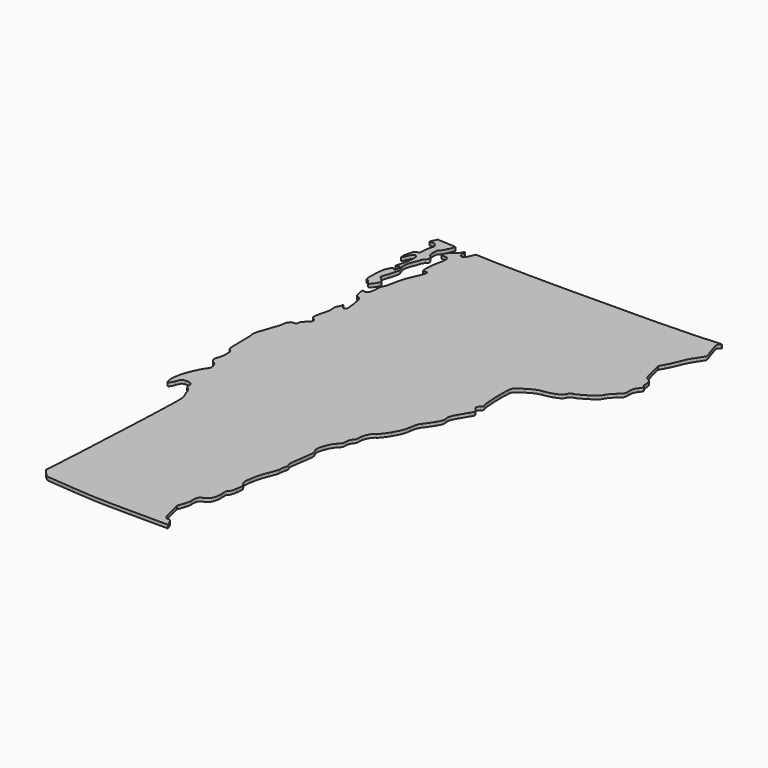
from build123d import *

# Parameters (mm, degrees)
F1_DEPTH = 25.4


with BuildPart() as f1:
    # F0 (on Top) → F1 (new body)
    with BuildSketch(Plane.XY):
        with BuildLine():
            add(Edge.make_bspline(
                [(-2097.4212210871, -1856.516704683), (-2121.4885338871, -1856.516704683), (-2125.2369134871, -1848.978365683), (-2148.4211190871, -1753.944875283)],
                knots=[0, 0, 0, 0, 1, 1, 1, 1], degree=3))
            Line((-2148.4211190871, -1753.944875283), (-2163.8260920871, -1690.799484683))
            Line((-2163.8260920871, -1690.799484683), (-2148.0146682871, -1646.418217083))
            add(Edge.make_bspline(
                [(-2148.0146682871, -1646.418217083), (-2139.3186226871, -1622.008944083), (-2134.0039266871, -1595.324415283), (-2136.2039222871, -1587.120113683)],
                knots=[0, 0, 0, 0, 1, 1, 1, 1], degree=3))
            add(Edge.make_bspline(
                [(-2136.2039222871, -1587.120113683), (-2138.4046290871, -1578.915837483), (-2137.3888830871, -1561.336649883), (-2133.9473100871, -1548.055675683)],
                knots=[0, 0, 0, 0, 1, 1, 1, 1], degree=3))
            add(Edge.make_bspline(
                [(-2133.9473100871, -1548.055675683), (-2129.0820670871, -1529.277227083), (-2122.7200782871, -1522.619887083), (-2105.3373342871, -1518.115959083)],
                knots=[0, 0, 0, 0, 1, 1, 1, 1], degree=3))
            add(Edge.make_bspline(
                [(-2105.3373342871, -1518.115959083), (-2069.8033438871, -1508.908078083), (-2047.5818744871, -1462.632199083), (-2051.6549930871, -1406.322634283)],
                knots=[0, 0, 0, 0, 1, 1, 1, 1], degree=3))
            add(Edge.make_bspline(
                [(-2051.6549930871, -1406.322634283), (-2054.2062452871, -1371.051737083), (-2052.6162814871, -1361.241012483), (-2043.8012368871, -1357.858215083)],
                knots=[0, 0, 0, 0, 1, 1, 1, 1], degree=3))
            add(Edge.make_bspline(
                [(-2043.8012368871, -1357.858215083), (-2036.6163134871, -1355.101222883), (-2029.8299414871, -1336.314163683), (-2024.4084638871, -1304.173740283)],
                knots=[0, 0, 0, 0, 1, 1, 1, 1], degree=3))
            add(Edge.make_bspline(
                [(-2024.4084638871, -1304.173740283), (-2016.5676108871, -1257.684933083), (-2017.0041606871, -1253.416132883), (-2031.7217080871, -1232.748076683)],
                knots=[0, 0, 0, 0, 1, 1, 1, 1], degree=3))
            add(Edge.make_bspline(
                [(-2031.7217080871, -1232.748076683), (-2046.7317110871, -1211.667829283), (-2047.0191628871, -1208.204031283), (-2038.7353084871, -1148.337475883)],
                knots=[0, 0, 0, 0, 1, 1, 1, 1], degree=3))
            add(Edge.make_bspline(
                [(-2038.7353084871, -1148.337475883), (-2033.0485786871, -1107.240072683), (-2021.4263768871, -1066.313992483), (-2004.7210254871, -1028.561388283)],
                knots=[0, 0, 0, 0, 1, 1, 1, 1], degree=3))
            add(Edge.make_bspline(
                [(-2004.7210254871, -1028.561388283), (-1990.7640810871, -997.020227083), (-1979.8422334871, -963.262585683), (-1980.4501062871, -953.543605883)],
                knots=[0, 0, 0, 0, 1, 1, 1, 1], degree=3))
            add(Edge.make_bspline(
                [(-1980.4501062871, -953.543605883), (-1981.0594268871, -943.824626083), (-1978.1354296871, -925.509981483), (-1973.9547928871, -912.844042883)],
                knots=[0, 0, 0, 0, 1, 1, 1, 1], degree=3))
            add(Edge.make_bspline(
                [(-1973.9547928871, -912.844042883), (-1968.3110652871, -895.743010283), (-1968.6243234871, -886.180291283), (-1975.1712750871, -875.697177883)],
                knots=[0, 0, 0, 0, 1, 1, 1, 1], degree=3))
            add(Edge.make_bspline(
                [(-1975.1712750871, -875.697177883), (-1982.3045856871, -864.274975683), (-1981.0228762871, -842.867855683), (-1968.4601886871, -763.571240083)],
                knots=[0, 0, 0, 0, 1, 1, 1, 1], degree=3))
            add(Edge.make_bspline(
                [(-1968.4601886871, -763.571240083), (-1954.4587688871, -675.197934483), (-1953.9827982871, -663.531993883), (-1963.6128780871, -644.909094883)],
                knots=[0, 0, 0, 0, 1, 1, 1, 1], degree=3))
            add(Edge.make_bspline(
                [(-1963.6128780871, -644.909094883), (-1977.6322048871, -617.798760483), (-1977.1210806871, -606.030330883), (-1959.6831424871, -554.393858083)],
                knots=[0, 0, 0, 0, 1, 1, 1, 1], degree=3))
            add(Edge.make_bspline(
                [(-1959.6831424871, -554.393858083), (-1950.5232928871, -527.269909283), (-1935.8172262871, -502.161704483), (-1920.2566782871, -487.080022683)],
                knots=[0, 0, 0, 0, 1, 1, 1, 1], degree=3))
            add(Edge.make_bspline(
                [(-1920.2566782871, -487.080022683), (-1899.7993912871, -467.251385683), (-1895.4395320871, -457.801950683), (-1895.4395320871, -433.285159483)],
                knots=[0, 0, 0, 0, 1, 1, 1, 1], degree=3))
            add(Edge.make_bspline(
                [(-1895.4395320871, -433.285159483), (-1895.4395320871, -412.648624683), (-1891.0510216871, -399.572679283), (-1881.1026544871, -390.569827083)],
                knots=[0, 0, 0, 0, 1, 1, 1, 1], degree=3))
            add(Edge.make_bspline(
                [(-1881.1026544871, -390.569827083), (-1870.9184482871, -381.352649683), (-1866.7657514871, -368.491004083), (-1866.7657514871, -346.162753083)],
                knots=[0, 0, 0, 0, 1, 1, 1, 1], degree=3))
            add(Edge.make_bspline(
                [(-1866.7657514871, -346.162753083), (-1866.7657514871, -307.002252283), (-1843.8159878871, -260.571509483), (-1816.7931056871, -245.062599683)],
                knots=[0, 0, 0, 0, 1, 1, 1, 1], degree=3))
            add(Edge.make_bspline(
                [(-1816.7931056871, -245.062599683), (-1804.9013590871, -238.237518083), (-1781.2455008871, -207.775196483), (-1760.0964448871, -172.051264883)],
                knots=[0, 0, 0, 0, 1, 1, 1, 1], degree=3))
            add(Edge.make_bspline(
                [(-1760.0964448871, -172.051264883), (-1730.0993750871, -121.380398483), (-1722.3531370871, -100.983309483), (-1715.4284366871, -54.425693683)],
                knots=[0, 0, 0, 0, 1, 1, 1, 1], degree=3))
            add(Edge.make_bspline(
                [(-1715.4284366871, -54.425693683), (-1709.0212612871, -11.344779083), (-1702.5366920871, 7.167020317), (-1687.8528504871, 24.302469917)],
                knots=[0, 0, 0, 0, 1, 1, 1, 1], degree=3))
            add(Edge.make_bspline(
                [(-1687.8528504871, 24.302469917), (-1677.2944514871, 36.624314717), (-1656.9081066871, 65.751129717), (-1642.5511630871, 89.029924917)],
                knots=[0, 0, 0, 0, 1, 1, 1, 1], degree=3))
            add(Edge.make_bspline(
                [(-1642.5511630871, 89.029924917), (-1619.8536976871, 125.832721517), (-1616.9956388871, 135.351701717), (-1620.6472444871, 161.993228317)],
                knots=[0, 0, 0, 0, 1, 1, 1, 1], degree=3))
            add(Edge.make_bspline(
                [(-1620.6472444871, 161.993228317), (-1624.2608770871, 188.357336117), (-1621.0701798871, 199.454088117), (-1597.7634192871, 241.532134517)],
                knots=[0, 0, 0, 0, 1, 1, 1, 1], degree=3))
            add(Edge.make_bspline(
                [(-1597.7634192871, 241.532134517), (-1582.8674114871, 268.427432517), (-1564.7183240871, 298.995113317), (-1557.4330452871, 309.460319717)],
                knots=[0, 0, 0, 0, 1, 1, 1, 1], degree=3))
            add(Edge.make_bspline(
                [(-1557.4330452871, 309.460319717), (-1540.4682074871, 333.828012917), (-1540.7205310871, 346.005763517), (-1558.5226544871, 362.116831117)],
                knots=[0, 0, 0, 0, 1, 1, 1, 1], degree=3))
            add(Edge.make_bspline(
                [(-1558.5226544871, 362.116831117), (-1576.8358766871, 378.689569117), (-1576.6924936871, 392.557638917), (-1558.0495286871, 407.650801517)],
                knots=[0, 0, 0, 0, 1, 1, 1, 1], degree=3))
            add(Edge.make_bspline(
                [(-1558.0495286871, 407.650801517), (-1544.9972306871, 418.220681317), (-1544.2552966871, 422.179093517), (-1551.7871840871, 441.057897517)],
                knots=[0, 0, 0, 0, 1, 1, 1, 1], degree=3))
            add(Edge.make_bspline(
                [(-1551.7871840871, 441.057897517), (-1560.8860736871, 463.862881117), (-1567.1548952871, 628.714164317), (-1560.8287458871, 678.807968117)],
                knots=[0, 0, 0, 0, 1, 1, 1, 1], degree=3))
            add(Edge.make_bspline(
                [(-1560.8287458871, 678.807968117), (-1557.2387860871, 707.233717717), (-1554.0660212871, 710.661676317), (-1498.6431958871, 745.992060317)],
                knots=[0, 0, 0, 0, 1, 1, 1, 1], degree=3))
            add(Edge.make_bspline(
                [(-1498.6431958871, 745.992060317), (-1452.2659454871, 775.556872917), (-1431.3846308871, 784.363306917), (-1397.2299874871, 788.761875717)],
                knots=[0, 0, 0, 0, 1, 1, 1, 1], degree=3))
            add(Edge.make_bspline(
                [(-1397.2299874871, 788.761875717), (-1373.5741292871, 791.807742117), (-1336.2636628871, 801.100916317), (-1314.3178342871, 809.413447317)],
                knots=[0, 0, 0, 0, 1, 1, 1, 1], degree=3))
            add(Edge.make_bspline(
                [(-1314.3178342871, 809.413447317), (-1282.5295818871, 821.452844117), (-1271.9857878871, 829.622728717), (-1262.4625912871, 849.593275517)],
                knots=[0, 0, 0, 0, 1, 1, 1, 1], degree=3))
            add(Edge.make_bspline(
                [(-1262.4625912871, 849.593275517), (-1254.0402560871, 867.254911517), (-1245.7097164871, 874.696451117), (-1234.2638668871, 874.781058517)],
                knots=[0, 0, 0, 0, 1, 1, 1, 1], degree=3))
            add(Edge.make_bspline(
                [(-1234.2638668871, 874.781058517), (-1225.3291120871, 874.852737317), (-1190.5995904871, 892.042669917), (-1157.0871098871, 912.992437517)],
                knots=[0, 0, 0, 0, 1, 1, 1, 1], degree=3))
            add(Edge.make_bspline(
                [(-1157.0871098871, 912.992437517), (-1109.2431110871, 942.902055117), (-1093.0758332871, 957.395930117), (-1081.8184262871, 980.471880917)],
                knots=[0, 0, 0, 0, 1, 1, 1, 1], degree=3))
            add(Edge.make_bspline(
                [(-1081.8184262871, 980.471880917), (-1073.9331486871, 996.635297917), (-1052.1713938871, 1022.182186117), (-1033.4590360871, 1037.242379517)],
                knots=[0, 0, 0, 0, 1, 1, 1, 1], degree=3))
            add(Edge.make_bspline(
                [(-1033.4590360871, 1037.242379517), (-1000.4022568871, 1063.847330117), (-999.4301480871, 1065.743389317), (-999.2094982871, 1104.050831117)],
                knots=[0, 0, 0, 0, 1, 1, 1, 1], degree=3))
            add(Edge.make_bspline(
                [(-999.2094982871, 1104.050831117), (-999.0224018871, 1136.526763117), (-995.2051374871, 1148.470097117), (-977.5554902871, 1171.798371517)],
                knots=[0, 0, 0, 0, 1, 1, 1, 1], degree=3))
            add(Edge.make_bspline(
                [(-977.5554902871, 1171.798371517), (-959.4888512871, 1195.677902117), (-957.8338126871, 1201.073598717), (-967.0022474871, 1206.204754317)],
                knots=[0, 0, 0, 0, 1, 1, 1, 1], degree=3))
            add(Edge.make_bspline(
                [(-967.0022474871, 1206.204754317), (-974.0894062871, 1210.171065917), (-977.8759112871, 1223.011883517), (-977.8759112871, 1243.080677517)],
                knots=[0, 0, 0, 0, 1, 1, 1, 1], degree=3))
            add(Edge.make_bspline(
                [(-977.8759112871, 1243.080677517), (-977.8759112871, 1273.863394717), (-988.5966162871, 1290.358713517), (-1014.5415732871, 1299.497049317)],
                knots=[0, 0, 0, 0, 1, 1, 1, 1], degree=3))
            add(Edge.make_bspline(
                [(-1014.5415732871, 1299.497049317), (-1022.4044226871, 1302.266208117), (-1032.4117178871, 1328.944310717), (-1045.7390216871, 1382.664624917)],
                knots=[0, 0, 0, 0, 1, 1, 1, 1], degree=3))
            Line((-1045.7390216871, 1382.664624917), (-1065.3603438871, 1461.754789317))
            Line((-1065.3603438871, 1461.754789317), (-1044.0585830871, 1499.748261717))
            add(Edge.make_bspline(
                [(-1044.0585830871, 1499.748261717), (-1032.3427060871, 1520.644994117), (-1013.8120598871, 1561.935234117), (-1002.8794680871, 1591.505075917)],
                knots=[0, 0, 0, 0, 1, 1, 1, 1], degree=3))
            add(Edge.make_bspline(
                [(-1002.8794680871, 1591.505075917), (-991.9468508871, 1621.074892317), (-968.9454744871, 1664.422481517), (-951.7652192871, 1687.832467717)],
                knots=[0, 0, 0, 0, 1, 1, 1, 1], degree=3))
            add(Edge.make_bspline(
                [(-951.7652192871, 1687.832467717), (-934.5849640871, 1711.243165117), (-920.5283754871, 1734.372887717), (-920.5283754871, 1739.233076117)],
                knots=[0, 0, 0, 0, 1, 1, 1, 1], degree=3))
            add(Edge.make_bspline(
                [(-920.5283754871, 1739.233076117), (-920.5283754871, 1744.092578717), (-930.2057754871, 1775.486775517), (-942.0336918871, 1808.997808317)],
                knots=[0, 0, 0, 0, 1, 1, 1, 1], degree=3))
            add(Edge.make_bspline(
                [(-942.0336918871, 1808.997808317), (-966.8311530871, 1879.254309917), (-968.3918560871, 1896.209114717), (-950.9942530871, 1906.342419317)],
                knots=[0, 0, 0, 0, 1, 1, 1, 1], degree=3))
            add(Edge.make_bspline(
                [(-950.9942530871, 1906.342419317), (-940.0539142871, 1912.714466517), (-940.7415176871, 1913.676466117), (-956.3705948871, 1913.864273717)],
                knots=[0, 0, 0, 0, 1, 1, 1, 1], degree=3))
            add(Edge.make_bspline(
                [(-956.3705948871, 1913.864273717), (-966.2271918871, 1913.986142917), (-1056.3989190871, 1909.126640317), (-1156.7521346871, 1903.073617117)],
                knots=[0, 0, 0, 0, 1, 1, 1, 1], degree=3))
            add(Edge.make_bspline(
                [(-1156.7521346871, 1903.073617117), (-1368.6877534871, 1890.290127317), (-2314.5842106871, 1885.089426517), (-2608.7628450871, 1895.090117717)],
                knots=[0, 0, 0, 0, 1, 1, 1, 1], degree=3))
            Line((-2608.7628450871, 1895.090117717), (-2788.0399058871, 1901.184720717))
            Line((-2788.0399058871, 1901.184720717), (-2803.7180050871, 1864.075117517))
            add(Edge.make_bspline(
                [(-2803.7180050871, 1864.075117517), (-2816.8986238871, 1832.878786717), (-2822.0276458871, 1827.338995917), (-2835.9107778871, 1829.306733917)],
                knots=[0, 0, 0, 0, 1, 1, 1, 1], degree=3))
            add(Edge.make_bspline(
                [(-2835.9107778871, 1829.306733917), (-2849.0806270871, 1831.174116517), (-2853.1501642871, 1837.207810317), (-2856.0082230871, 1859.104540717)],
                knots=[0, 0, 0, 0, 1, 1, 1, 1], degree=3))
            add(Edge.make_bspline(
                [(-2856.0082230871, 1859.104540717), (-2857.2031914871, 1868.256490917), (-2853.0548126871, 1883.642109117), (-2859.5924424871, 1886.561102517)],
                knots=[0, 0, 0, 0, 1, 1, 1, 1], degree=3))
            add(Edge.make_bspline(
                [(-2859.5924424871, 1886.561102517), (-2865.0225306871, 1886.675808917), (-2868.0325830871, 1872.275101117), (-2872.2318380871, 1865.007018117)],
                knots=[0, 0, 0, 0, 1, 1, 1, 1], degree=3))
            add(Edge.make_bspline(
                [(-2872.2318380871, 1865.007018117), (-2879.1830814871, 1853.152558717), (-2895.8332386871, 1836.678042517), (-2909.2317640871, 1828.397058317)],
                knots=[0, 0, 0, 0, 1, 1, 1, 1], degree=3))
            add(Edge.make_bspline(
                [(-2909.2317640871, 1828.397058317), (-2922.6310260871, 1820.116785317), (-2936.8754476871, 1803.924717117), (-2940.8876316871, 1792.415773917)],
                knots=[0, 0, 0, 0, 1, 1, 1, 1], degree=3))
            add(Edge.make_bspline(
                [(-2940.8876316871, 1792.415773917), (-2948.1313306871, 1771.636592717), (-2947.9743586871, 1771.476039317), (-2918.2245832871, 1769.311171917)],
                knots=[0, 0, 0, 0, 1, 1, 1, 1], degree=3))
            add(Edge.make_bspline(
                [(-2918.2245832871, 1769.311171917), (-2890.4282202871, 1767.288950917), (-2888.1085144871, 1765.506861517), (-2886.0777082871, 1744.607258917)],
                knots=[0, 0, 0, 0, 1, 1, 1, 1], degree=3))
            add(Edge.make_bspline(
                [(-2886.0777082871, 1744.607258917), (-2884.8741038871, 1732.218764517), (-2888.9063538871, 1702.721338117), (-2895.0382440871, 1679.056869317)],
                knots=[0, 0, 0, 0, 1, 1, 1, 1], degree=3))
            add(Edge.make_bspline(
                [(-2895.0382440871, 1679.056869317), (-2901.1701342871, 1655.392400517), (-2906.1873454871, 1615.169544717), (-2906.1873454871, 1589.672084917)],
                knots=[0, 0, 0, 0, 1, 1, 1, 1], degree=3))
            add(Edge.make_bspline(
                [(-2906.1873454871, 1589.672084917), (-2906.1873454871, 1544.151043117), (-2905.8647654871, 1543.375403317), (-2888.3558342871, 1546.723072517)],
                knots=[0, 0, 0, 0, 1, 1, 1, 1], degree=3))
            add(Edge.make_bspline(
                [(-2888.3558342871, 1546.723072517), (-2858.9257686871, 1552.348867717), (-2860.4526642871, 1533.853578317), (-2895.6575976871, 1458.278088117)],
                knots=[0, 0, 0, 0, 1, 1, 1, 1], degree=3))
            add(Edge.make_bspline(
                [(-2895.6575976871, 1458.278088117), (-2919.3098998871, 1407.503996117), (-2931.7629102871, 1368.851038117), (-2939.2603806871, 1322.945033917)],
                knots=[0, 0, 0, 0, 1, 1, 1, 1], degree=3))
            add(Edge.make_bspline(
                [(-2939.2603806871, 1322.945033917), (-2945.0324290871, 1287.602457917), (-2954.4689608871, 1253.477075317), (-2960.2295284871, 1247.112216317)],
                knots=[0, 0, 0, 0, 1, 1, 1, 1], degree=3))
            add(Edge.make_bspline(
                [(-2960.2295284871, 1247.112216317), (-2966.8646434871, 1239.780328517), (-2970.7872162871, 1219.980368117), (-2970.9312850871, 1193.092232917)],
                knots=[0, 0, 0, 0, 1, 1, 1, 1], degree=3))
            add(Edge.make_bspline(
                [(-2970.9312850871, 1193.092232917), (-2971.1965118871, 1143.336782517), (-2983.2452558871, 1122.171241917), (-3008.5434018871, 1127.007071717)],
                knots=[0, 0, 0, 0, 1, 1, 1, 1], degree=3))
            add(Edge.make_bspline(
                [(-3008.5434018871, 1127.007071717), (-3025.5491082871, 1130.257966917), (-3025.5569822871, 1130.227842517), (-3017.5813822871, 1090.274531517)],
                knots=[0, 0, 0, 0, 1, 1, 1, 1], degree=3))
            add(Edge.make_bspline(
                [(-3017.5813822871, 1090.274531517), (-3011.0301380871, 1057.454531117), (-3006.7534384871, 1049.876745917), (-2993.7197840871, 1047.995037717)],
                knots=[0, 0, 0, 0, 1, 1, 1, 1], degree=3))
            add(Edge.make_bspline(
                [(-2993.7197840871, 1047.995037717), (-2984.9864512871, 1046.733394317), (-2974.9004668871, 1040.208667717), (-2971.3076368871, 1033.494711117)],
                knots=[0, 0, 0, 0, 1, 1, 1, 1], degree=3))
            add(Edge.make_bspline(
                [(-2971.3076368871, 1033.494711117), (-2961.6545954871, 1015.458907717), (-2946.2711362871, 906.964509517), (-2951.4524822871, 893.463444317)],
                knots=[0, 0, 0, 0, 1, 1, 1, 1], degree=3))
            add(Edge.make_bspline(
                [(-2951.4524822871, 893.463444317), (-2958.2875968871, 875.651287917), (-2976.2044012871, 879.599667117), (-2988.1090256871, 901.542295317)],
                knots=[0, 0, 0, 0, 1, 1, 1, 1], degree=3))
            add(Edge.make_bspline(
                [(-2988.1090256871, 901.542295317), (-2997.1828454871, 918.268423917), (-2998.8810640871, 919.083459117), (-2999.3183250871, 906.918611717)],
                knots=[0, 0, 0, 0, 1, 1, 1, 1], degree=3))
            add(Edge.make_bspline(
                [(-2999.3183250871, 906.918611717), (-2999.6050656871, 899.033334117), (-3004.1656356871, 886.872068117), (-3009.4609514871, 879.892859317)],
                knots=[0, 0, 0, 0, 1, 1, 1, 1], degree=3))
            add(Edge.make_bspline(
                [(-3009.4609514871, 879.892859317), (-3015.6408730871, 871.748806517), (-3017.8250952871, 855.990417917), (-3015.5598724871, 835.890813717)],
                knots=[0, 0, 0, 0, 1, 1, 1, 1], degree=3))
            add(Edge.make_bspline(
                [(-3015.5598724871, 835.890813717), (-3013.4330034871, 817.022017317), (-3016.6279678871, 790.727454717), (-3023.5992772871, 769.726785517)],
                knots=[0, 0, 0, 0, 1, 1, 1, 1], degree=3))
            add(Edge.make_bspline(
                [(-3023.5992772871, 769.726785517), (-3029.9620026871, 750.559081917), (-3036.4279282871, 721.774176317), (-3037.9669904871, 705.760593917)],
                knots=[0, 0, 0, 0, 1, 1, 1, 1], degree=3))
            add(Edge.make_bspline(
                [(-3037.9669904871, 705.760593917), (-3040.3046286871, 681.442379917), (-3038.2465682871, 675.537006917), (-3025.4895960871, 669.918374517)],
                knots=[0, 0, 0, 0, 1, 1, 1, 1], degree=3))
            add(Edge.make_bspline(
                [(-3025.4895960871, 669.918374517), (-2999.7792588871, 658.596527717), (-3002.2960940871, 638.084021117), (-3032.5082256871, 612.719200117)],
                knots=[0, 0, 0, 0, 1, 1, 1, 1], degree=3))
            add(Edge.make_bspline(
                [(-3032.5082256871, 612.719200117), (-3049.9354450871, 598.088419117), (-3060.0321990871, 583.451161117), (-3060.1397172871, 572.664085917)],
                knots=[0, 0, 0, 0, 1, 1, 1, 1], degree=3))
            add(Edge.make_bspline(
                [(-3060.1397172871, 572.664085917), (-3060.2759120871, 558.845469917), (-3064.1483198871, 555.610373517), (-3080.8278394871, 555.373086717)],
                knots=[0, 0, 0, 0, 1, 1, 1, 1], degree=3))
            add(Edge.make_bspline(
                [(-3080.8278394871, 555.373086717), (-3096.0693888871, 555.158024917), (-3104.2679500871, 549.623999917), (-3112.7023248871, 533.867744917)],
                knots=[0, 0, 0, 0, 1, 1, 1, 1], degree=3))
            add(Edge.make_bspline(
                [(-3112.7023248871, 533.867744917), (-3118.9482102871, 522.200381917), (-3123.3144956871, 506.202572917), (-3122.4062678871, 498.317295317)],
                knots=[0, 0, 0, 0, 1, 1, 1, 1], degree=3))
            add(Edge.make_bspline(
                [(-3122.4062678871, 498.317295317), (-3121.4980146871, 490.431992317), (-3135.5574734871, 443.777602517), (-3153.6499188871, 394.640794517)],
                knots=[0, 0, 0, 0, 1, 1, 1, 1], degree=3))
            add(Edge.make_bspline(
                [(-3153.6499188871, 394.640794517), (-3178.4469990871, 327.294701117), (-3185.1330156871, 300.823786317), (-3180.8089958871, 287.114136317)],
                knots=[0, 0, 0, 0, 1, 1, 1, 1], degree=3))
            add(Edge.make_bspline(
                [(-3180.8089958871, 287.114136317), (-3177.6549000871, 277.111286117), (-3175.0577754871, 222.570170917), (-3175.0391318871, 165.912219717)],
                knots=[0, 0, 0, 0, 1, 1, 1, 1], degree=3))
            add(Edge.make_bspline(
                [(-3175.0391318871, 165.912219717), (-3174.9674530871, 67.068678517), (-3174.3509442871, 62.461524917), (-3158.8750036871, 52.134672317)],
                knots=[0, 0, 0, 0, 1, 1, 1, 1], degree=3))
            add(Edge.make_bspline(
                [(-3158.8750036871, 52.134672317), (-3145.1818382871, 42.997758917), (-3142.7460036871, 34.973416317), (-3142.7460036871, -0.994253683)],
                knots=[0, 0, 0, 0, 1, 1, 1, 1], degree=3))
            add(Edge.make_bspline(
                [(-3142.7460036871, -0.994253683), (-3142.7460036871, -24.296010483), (-3147.4657046871, -54.656528883), (-3153.2348574871, -68.462952883)],
                knots=[0, 0, 0, 0, 1, 1, 1, 1], degree=3))
            add(Edge.make_bspline(
                [(-3153.2348574871, -68.462952883), (-3161.3724840871, -87.938885483), (-3161.9172886871, -97.527410883), (-3155.6678472871, -111.243512483)],
                knots=[0, 0, 0, 0, 1, 1, 1, 1], degree=3))
            add(Edge.make_bspline(
                [(-3155.6678472871, -111.243512483), (-3151.2377316871, -120.966073683), (-3144.9051306871, -128.921607683), (-3141.5954598871, -128.921607683)],
                knots=[0, 0, 0, 0, 1, 1, 1, 1], degree=3))
            add(Edge.make_bspline(
                [(-3141.5954598871, -128.921607683), (-3138.2857890871, -128.921607683), (-3129.1259648871, -135.373207683), (-3121.2406618871, -143.258485283)],
                knots=[0, 0, 0, 0, 1, 1, 1, 1], degree=3))
            add(Edge.make_bspline(
                [(-3121.2406618871, -143.258485283), (-3106.4105924871, -158.088580083), (-3101.1826374871, -203.392426483), (-3113.4284854871, -210.960864483)],
                knots=[0, 0, 0, 0, 1, 1, 1, 1], degree=3))
            add(Edge.make_bspline(
                [(-3113.4284854871, -210.960864483), (-3128.0535514871, -219.999556083), (-3172.7186894871, -312.705466683), (-3186.3007552871, -362.215045083)],
                knots=[0, 0, 0, 0, 1, 1, 1, 1], degree=3))
            add(Edge.make_bspline(
                [(-3186.3007552871, -362.215045083), (-3214.7938910871, -466.071454083), (-3192.3767146871, -550.534378883), (-3160.1789380871, -460.637073283)],
                knots=[0, 0, 0, 0, 1, 1, 1, 1], degree=3))
            add(Edge.make_bspline(
                [(-3160.1789380871, -460.637073283), (-3145.4312916871, -419.460091883), (-3145.1890010871, -419.231415683), (-3113.8442580871, -416.964745083)],
                knots=[0, 0, 0, 0, 1, 1, 1, 1], degree=3))
            add(Edge.make_bspline(
                [(-3113.8442580871, -416.964745083), (-3078.4615500871, -414.404907683), (-3063.8931006871, -426.472269883), (-3063.8931006871, -458.340303683)],
                knots=[0, 0, 0, 0, 1, 1, 1, 1], degree=3))
            add(Edge.make_bspline(
                [(-3063.8931006871, -458.340303683), (-3063.8931006871, -470.275052483), (-3058.4285954871, -479.270716483), (-3048.3963574871, -483.852063683)],
                knots=[0, 0, 0, 0, 1, 1, 1, 1], degree=3))
            add(Edge.make_bspline(
                [(-3048.3963574871, -483.852063683), (-3039.2049864871, -488.049210483), (-3029.4860066871, -502.595409483), (-3024.5111118871, -519.601827083)],
                knots=[0, 0, 0, 0, 1, 1, 1, 1], degree=3))
            add(Edge.make_bspline(
                [(-3024.5111118871, -519.601827083), (-3019.8982178871, -535.372407683), (-3010.4602382871, -559.145842483), (-3003.5383826871, -572.431109283)],
                knots=[0, 0, 0, 0, 1, 1, 1, 1], degree=3))
            add(Edge.make_bspline(
                [(-3003.5383826871, -572.431109283), (-2991.5785640871, -595.385902083), (-2991.5291102871, -611.959351283), (-3002.5427026871, -905.763767483)],
                knots=[0, 0, 0, 0, 1, 1, 1, 1], degree=3))
            add(Edge.make_bspline(
                [(-3002.5427026871, -905.763767483), (-3008.9168834871, -1075.811458883), (-3022.0946320871, -1350.101944083), (-3031.8272262871, -1515.298032283)],
                knots=[0, 0, 0, 0, 1, 1, 1, 1], degree=3))
            Line((-3031.8272262871, -1515.298032283), (-3049.5218060871, -1815.655851683))
            Line((-3049.5218060871, -1815.655851683), (-3023.9698886871, -1846.838593483))
            add(Edge.make_bspline(
                [(-3023.9698886871, -1846.838593483), (-3008.6846258871, -1865.492328083), (-2992.1291090871, -1878.240689683), (-2982.7685486871, -1878.566139883)],
                knots=[0, 0, 0, 0, 1, 1, 1, 1], degree=3))
            add(Edge.make_bspline(
                [(-2982.7685486871, -1878.566139883), (-2974.1614030871, -1878.867206083), (-2886.4741006871, -1886.542451083), (-2787.9080036871, -1895.626303883)],
                knots=[0, 0, 0, 0, 1, 1, 1, 1], degree=3))
            add(Edge.make_bspline(
                [(-2787.9080036871, -1895.626303883), (-2640.6803326871, -1909.194755283), (-2559.2260124871, -1912.295815883), (-2331.4967244871, -1913.003332883)],
                knots=[0, 0, 0, 0, 1, 1, 1, 1], degree=3))
            Line((-2331.4967244871, -1913.003332883), (-2054.2958564871, -1913.864265883))
            Line((-2054.2958564871, -1913.864265883), (-2065.5596134871, -1885.190485283))
            Line((-2065.5596134871, -1885.190485283), (-2065.5624836871, -1885.190485283))
            add(Edge.make_bspline(
                [(-2065.5624836871, -1885.190485283), (-2075.0628202871, -1861.004884683), (-2080.0491958871, -1856.516704683), (-2097.4212210871, -1856.516704683)],
                knots=[0, 0, 0, 0, 1, 1, 1, 1], degree=3))
        make_face()
    extrude(amount=F1_DEPTH)


with BuildPart() as f1b:
    # F0 (on Top) → F1, piece 2 (new body)
    with BuildSketch(Plane.XY):
        with BuildLine():
            add(Edge.make_bspline(
                [(-2943.5729196871, 1903.362516717), (-2944.6969458871, 1904.313746717), (-2976.5413068871, 1906.637770517), (-3014.3376498871, 1908.528089317)],
                knots=[0, 0, 0, 0, 1, 1, 1, 1], degree=3))
            Line((-3014.3376498871, 1908.528089317), (-3083.0586706871, 1911.964633117))
            Line((-3083.0586706871, 1911.964633117), (-3092.6364264871, 1889.727415717))
            add(Edge.make_bspline(
                [(-3092.6364264871, 1889.727415717), (-3097.9038022871, 1877.496604517), (-3103.5288862871, 1865.099499517), (-3105.1367570871, 1862.177635917)],
                knots=[0, 0, 0, 0, 1, 1, 1, 1], degree=3))
            add(Edge.make_bspline(
                [(-3105.1367570871, 1862.177635917), (-3106.7439166871, 1859.255772317), (-3098.4213526871, 1858.792704917), (-3086.6428900871, 1861.148961317)],
                knots=[0, 0, 0, 0, 1, 1, 1, 1], degree=3))
            add(Edge.make_bspline(
                [(-3086.6428900871, 1861.148961317), (-3068.8895092871, 1864.699500317), (-3063.0959724871, 1862.180506117), (-3052.7712788871, 1846.422828717)],
                knots=[0, 0, 0, 0, 1, 1, 1, 1], degree=3))
            add(Edge.make_bspline(
                [(-3052.7712788871, 1846.422828717), (-3042.8178824871, 1831.232180917), (-3041.9404648871, 1824.239357717), (-3048.4006754871, 1811.609995117)],
                knots=[0, 0, 0, 0, 1, 1, 1, 1], degree=3))
            add(Edge.make_bspline(
                [(-3048.4006754871, 1811.609995117), (-3052.8479614871, 1802.917556317), (-3057.3468856871, 1776.450934117), (-3058.3992076871, 1752.795075917)],
                knots=[0, 0, 0, 0, 1, 1, 1, 1], degree=3))
            add(Edge.make_bspline(
                [(-3058.3992076871, 1752.795075917), (-3060.1590720871, 1713.213773317), (-3061.6099708871, 1709.831001317), (-3076.5912972871, 1710.370065517)],
                knots=[0, 0, 0, 0, 1, 1, 1, 1], degree=3))
            add(Edge.make_bspline(
                [(-3076.5912972871, 1710.370065517), (-3090.2464642871, 1710.857516917), (-3094.6579362871, 1704.807338517), (-3103.9575366871, 1672.819594517)],
                knots=[0, 0, 0, 0, 1, 1, 1, 1], degree=3))
            add(Edge.make_bspline(
                [(-3103.9575366871, 1672.819594517), (-3110.0550352871, 1651.844731717), (-3113.9109330871, 1625.775238517), (-3112.5267092871, 1614.886385517)],
                knots=[0, 0, 0, 0, 1, 1, 1, 1], degree=3))
            add(Edge.make_bspline(
                [(-3112.5267092871, 1614.886385517), (-3110.0743900871, 1595.601841917), (-3109.6930090871, 1595.831940517), (-3097.7826442871, 1623.763075917)],
                knots=[0, 0, 0, 0, 1, 1, 1, 1], degree=3))
            add(Edge.make_bspline(
                [(-3097.7826442871, 1623.763075917), (-3079.1748074871, 1667.402409517), (-3074.2149494871, 1673.942172917), (-3059.7289738871, 1673.942172917)],
                knots=[0, 0, 0, 0, 1, 1, 1, 1], degree=3))
            add(Edge.make_bspline(
                [(-3059.7289738871, 1673.942172917), (-3032.6860002871, 1673.942172917), (-3040.5741734871, 1586.499345517), (-3067.8249952871, 1503.607029717)],
                knots=[0, 0, 0, 0, 1, 1, 1, 1], degree=3))
            add(Edge.make_bspline(
                [(-3067.8249952871, 1503.607029717), (-3072.7654984871, 1488.718895917), (-3053.6286050871, 1496.764041117), (-3043.5927856871, 1504.001288517)],
                knots=[0, 0, 0, 0, 1, 1, 1, 1], degree=3))
            add(Edge.make_bspline(
                [(-3043.5927856871, 1504.001288517), (-3037.2573144871, 1502.400580517), (-3035.9734460871, 1498.874425517), (-3035.6809904871, 1494.969785117)],
                knots=[0, 0, 0, 0, 1, 1, 1, 1], degree=3))
            add(Edge.make_bspline(
                [(-3035.6809904871, 1494.969785117), (-3031.4809988871, 1480.163363117), (-3039.9368874871, 1445.199272517), (-3047.1533576871, 1455.306770717)],
                knots=[0, 0, 0, 0, 1, 1, 1, 1], degree=3))
            add(Edge.make_bspline(
                [(-3047.1533576871, 1455.306770717), (-3068.0135394871, 1484.523196917), (-3087.0815988871, 1427.971341517), (-3093.1446550871, 1396.604373517)],
                knots=[0, 0, 0, 0, 1, 1, 1, 1], degree=3))
            add(Edge.make_bspline(
                [(-3093.1446550871, 1396.604373517), (-3096.4299672871, 1379.607277717), (-3099.2586382871, 1340.701259517), (-3099.4299612871, 1310.145770717)],
                knots=[0, 0, 0, 0, 1, 1, 1, 1], degree=3))
            add(Edge.make_bspline(
                [(-3099.4299612871, 1310.145770717), (-3099.6808624871, 1265.786728117), (-3097.6084510871, 1254.590331917), (-3089.1547214871, 1254.590331917)],
                knots=[0, 0, 0, 0, 1, 1, 1, 1], degree=3))
            add(Edge.make_bspline(
                [(-3089.1547214871, 1254.590331917), (-3083.3317714871, 1254.590331917), (-3073.2837854871, 1246.525831917), (-3066.8249972871, 1236.669209517)],
                knots=[0, 0, 0, 0, 1, 1, 1, 1], degree=3))
            add(Edge.make_bspline(
                [(-3066.8249972871, 1236.669209517), (-3052.9053146871, 1215.424801917), (-3047.9476156871, 1214.598997117), (-3034.5455088871, 1231.292893117)],
                knots=[0, 0, 0, 0, 1, 1, 1, 1], degree=3))
            Line((-3034.5455088871, 1231.292893117), (-3034.5411908871, 1231.292893117))
            add(Edge.make_bspline(
                [(-3034.5411908871, 1231.292893117), (-3020.7347668871, 1248.489251917), (-3006.5484350871, 1274.499258317), (-3006.5484350871, 1282.615371117)],
                knots=[0, 0, 0, 0, 1, 1, 1, 1], degree=3))
            add(Edge.make_bspline(
                [(-3006.5484350871, 1282.615371117), (-3006.5484350871, 1286.308531117), (-3016.3921288871, 1299.173021517), (-3028.4236516871, 1311.204544317)],
                knots=[0, 0, 0, 0, 1, 1, 1, 1], degree=3))
            Line((-3028.4236516871, 1311.204544317), (-3050.2981570871, 1333.079049717))
            Line((-3050.2981570871, 1333.079049717), (-3032.0078710871, 1390.978578317))
            add(Edge.make_bspline(
                [(-3032.0078710871, 1390.978578317), (-3021.9476676871, 1422.823675917), (-3013.8860378871, 1457.582763117), (-3014.0932002871, 1468.221451517)],
                knots=[0, 0, 0, 0, 1, 1, 1, 1], degree=3))
            Line((-3014.0932002871, 1468.221451517), (-3030.9576826871, 1512.322430117))
            add(Edge.make_bspline(
                [(-3030.9576826871, 1512.322430117), (-3034.7698670871, 1529.732428317), (-3027.1576902871, 1572.056346717), (-3017.3010932871, 1591.507209517)],
                knots=[0, 0, 0, 0, 1, 1, 1, 1], degree=3))
            Line((-3017.3010932871, 1591.507209517), (-3017.3010932871, 1591.505075917))
            add(Edge.make_bspline(
                [(-3017.3010932871, 1591.505075917), (-3007.4444708871, 1610.955913317), (-2999.3799708871, 1632.866994717), (-2999.3799708871, 1640.196012317)],
                knots=[0, 0, 0, 0, 1, 1, 1, 1], degree=3))
            add(Edge.make_bspline(
                [(-2999.3799708871, 1640.196012317), (-2999.3799708871, 1647.525741117), (-2991.4402102871, 1660.980908517), (-2981.7362926871, 1670.097730517)],
                knots=[0, 0, 0, 0, 1, 1, 1, 1], degree=3))
            add(Edge.make_bspline(
                [(-2981.7362926871, 1670.097730517), (-2966.9714504871, 1683.968670517), (-2965.3872270871, 1689.143590317), (-2972.0302160871, 1701.813084917)],
                knots=[0, 0, 0, 0, 1, 1, 1, 1], degree=3))
            add(Edge.make_bspline(
                [(-2972.0302160871, 1701.813084917), (-2976.3957902871, 1710.139941517), (-2984.3355762871, 1719.532759917), (-2989.6738942871, 1722.685458717)],
                knots=[0, 0, 0, 0, 1, 1, 1, 1], degree=3))
            add(Edge.make_bspline(
                [(-2989.6738942871, 1722.685458717), (-2995.8609786871, 1726.339197917), (-2999.3799708871, 1741.958521517), (-2999.3799708871, 1765.763503117)],
                knots=[0, 0, 0, 0, 1, 1, 1, 1], degree=3))
            add(Edge.make_bspline(
                [(-2999.3799708871, 1765.763503117), (-2999.3799708871, 1794.761997317), (-2996.3190422871, 1805.021489117), (-2985.6853830871, 1811.662319117)],
                knots=[0, 0, 0, 0, 1, 1, 1, 1], degree=3))
            add(Edge.make_bspline(
                [(-2985.6853830871, 1811.662319117), (-2974.0359524871, 1818.937590317), (-2937.5887050871, 1898.300855517), (-2943.5729196871, 1903.362516717)],
                knots=[0, 0, 0, 0, 1, 1, 1, 1], degree=3))
        make_face()
    extrude(amount=F1_DEPTH)


solid = Compound([f1.part, f1b.part])
